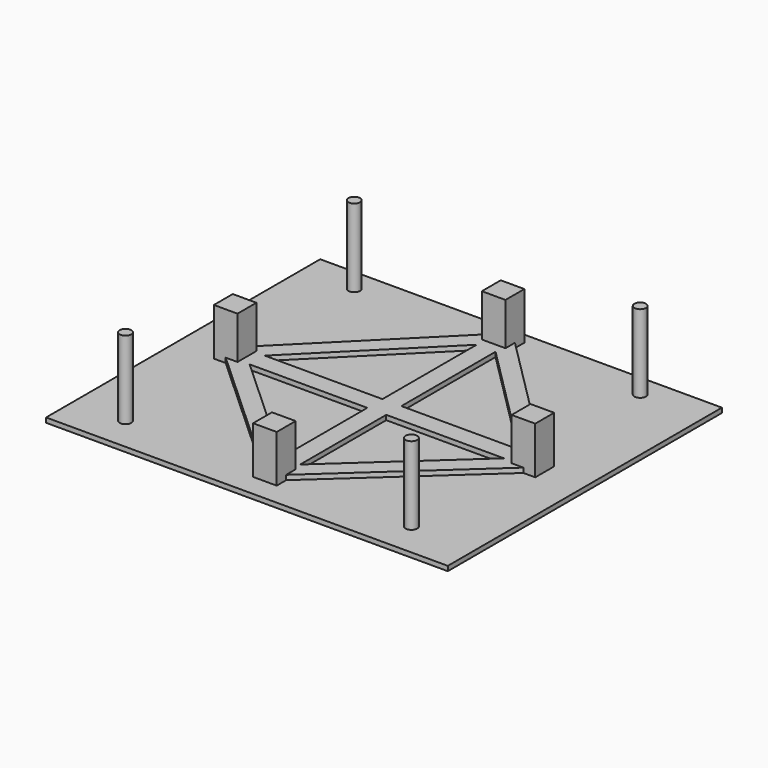
from build123d import *

# Parameters (mm, degrees)
F0_W      = 170
F0_H      = 145
F1_DEPTH  = 2
F2_R      = 2.45
F3_DEPTH  = 33
F4_W      = 10
F4_H      = 10
F5_DEPTH  = 20
F8_DEPTH  = 2
F9_W      = 8
F9_H      = 8
F10_DEPTH = 2


with BuildPart() as f1:
    # F0 (on Top) → F1 (new body)
    with BuildSketch(Plane.XY):
        with Locations((85, 72.5)):
            Rectangle(F0_W, F0_H)
    extrude(amount=F1_DEPTH)

    # F2 (on face) → F3 (join)
    with BuildSketch(Plane.XY.offset(2)):
        with Locations((22, 135.5)):
            Circle(F2_R)
        with Locations((22, 14.5)):
            Circle(F2_R)
        with Locations((143, 135.5)):
            Circle(F2_R)
        with Locations((143, 14.5)):
            Circle(F2_R)
    extrude(amount=F3_DEPTH)

    # F4 (on face) → F5 (join)
    with BuildSketch(Plane.XY.offset(2)):
        with Locations((85, 14.5)):
            Rectangle(F4_W, F4_H)
        with Locations((85, 135.5)):
            Rectangle(F4_W, F4_H)
        with Locations((22, 72.5)):
            Rectangle(F4_W, F4_H)
        with Locations((148, 72.5)):
            Rectangle(F4_W, F4_H)
    extrude(amount=F5_DEPTH)

    # F7 (on face) → F8 (join)
    with BuildSketch(Plane.XY.offset(2)):
        Polygon((85, 19.5), (27, 72.5), (27, 67.5), (22, 67.5), (80, 14.5), (80, 19.5), align=None)
        Polygon((143, 72.5), (85, 19.5), (90, 19.5), (90, 14.5), (148, 67.5), (143, 67.5), align=None)
        Polygon((90, 130.5), (85, 130.5), (143, 72.5), (143, 77.5), (148, 77.5), (90, 135.5), align=None)
        Polygon((27, 77.5), (27, 72.5), (85, 130.5), (80, 130.5), (80, 135.5), (22, 77.5), align=None)
    extrude(amount=F8_DEPTH)

    # F9 (on face) → F10 (join)
    with BuildSketch(Plane.XY.offset(2)):
        Polygon((31.1801801802, 68.6801801802), (81, 68.6801801802), (81, 76.6801801802), (31.1801801802, 76.6801801802), (27, 72.5), align=None)
        Polygon((81, 126.5), (81, 76.6801801802), (89, 76.6801801802), (89, 126.5), (85, 130.5), align=None)
        with Locations((85, 72.6801801802)):
            Rectangle(F9_W, F9_H)
        Polygon((143, 72.5), (138.8198198198, 68.6801801802), (139.1801801802, 68.6801801802), align=None)
        Polygon((89, 76.6801801802), (89, 68.6801801802), (138.8198198198, 68.6801801802), (143, 72.5), (138.8198198198, 76.6801801802), align=None)
        Polygon((81, 68.6801801802), (81, 23.1551724138), (85, 19.5), (89, 23.1551724138), (89, 68.6801801802), align=None)
    extrude(amount=F10_DEPTH)


solid = f1.part
